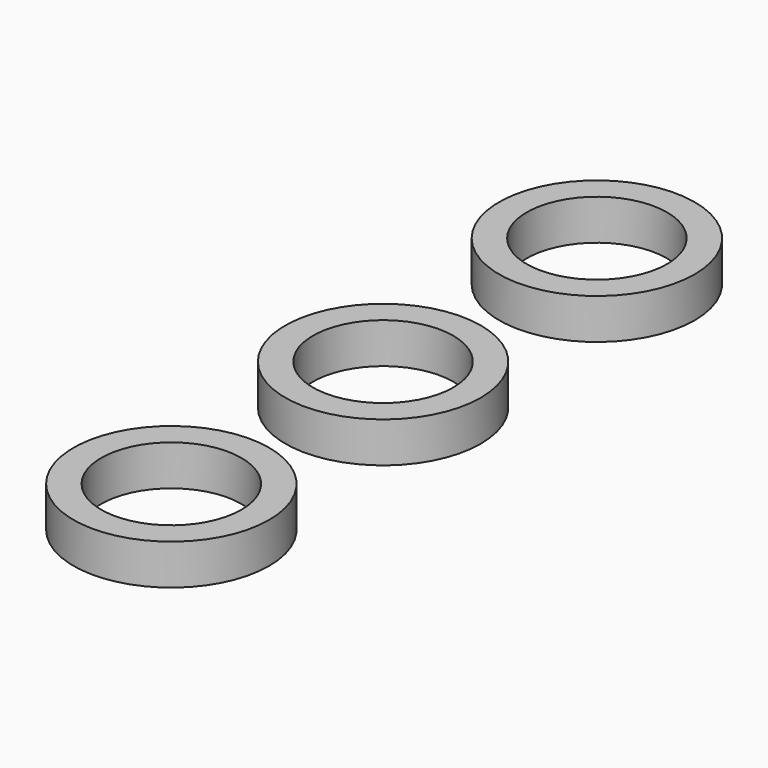
from build123d import *

# Parameters (mm, degrees)
F1_R     = 15.337315
F1_R_2   = 10.9982
F2_R     = 15.33779
F2_R_2   = 10.9982
F3_DEPTH = 6.35


with BuildPart() as f3:
    # F1 (on face) + F2 (on Top) → F3 (new body)
    with BuildSketch(Plane.XY):
        Circle(F1_R)
        Circle(F1_R_2, mode=Mode.SUBTRACT)
    with BuildSketch(Plane.XY):
        with Locations((0, 41.910004)):
            Circle(F2_R)
        with Locations((0, 41.910004)):
            Circle(F2_R_2, mode=Mode.SUBTRACT)
        with Locations((0, -41.508947)):
            Circle(F2_R)
        with Locations((0, -41.508947)):
            Circle(F2_R_2, mode=Mode.SUBTRACT)
    extrude(amount=F3_DEPTH)


solid = f3.part
